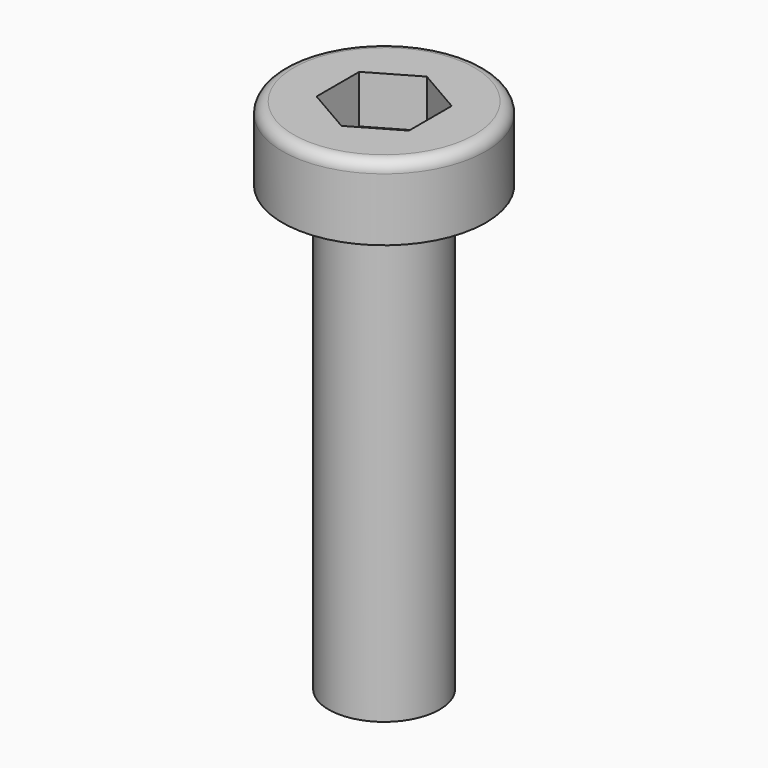
from build123d import *

# Parameters (mm, degrees)
F0_R     = 2.75
F1_DEPTH = 2
F3_DEPTH = 1.3
F4_R     = 1.5
F5_DEPTH = 12
F6_R     = 0.3


with BuildPart() as f1:
    # F0 (on Top) → F1 (new body)
    with BuildSketch(Plane.XY):
        Circle(F0_R)
    extrude(amount=F1_DEPTH)

    # F2 (on face) → F3 (cut)
    with BuildSketch(Plane.XY.offset(2)):
        Polygon((1.25, -0.721688), (1.25, 0.721688), (0, 1.443376), (-1.25, 0.721688), (-1.25, -0.721688), (0, -1.443376), align=None)
    extrude(amount=-F3_DEPTH, mode=Mode.SUBTRACT)

    # F4 (on face) → F5 (join)
    with BuildSketch(Plane(origin=(0, 0, 0), x_dir=(1, 0, 0), z_dir=(0, 0, -1))):
        Circle(F4_R)
    extrude(amount=F5_DEPTH)

    # F6
    f6_edges = [f1.edges().sort_by_distance(p)[0] for p in [
        (-2.75, 0, 2),
    ]]
    fillet(f6_edges, radius=F6_R)


solid = f1.part
